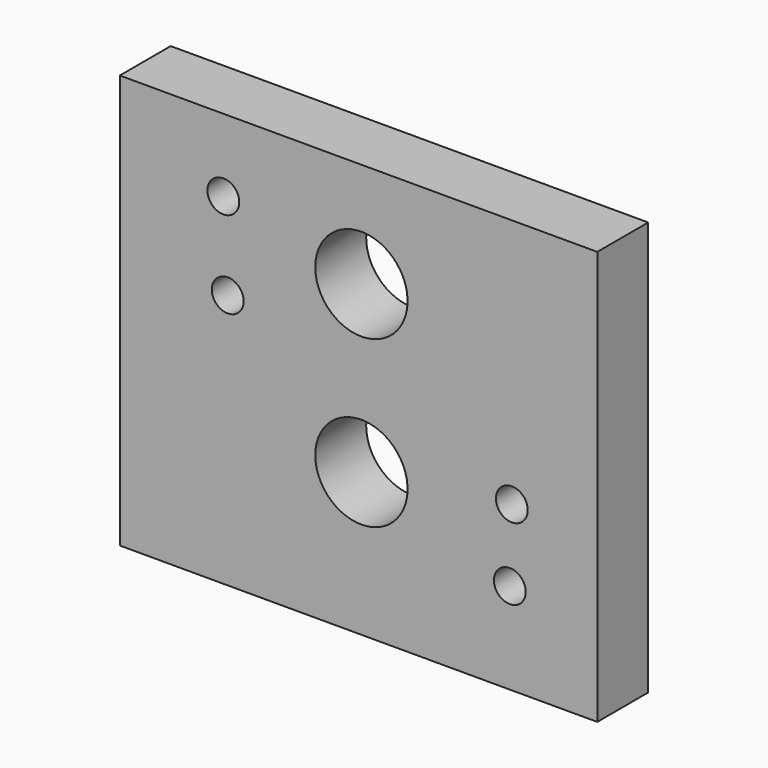
from build123d import *

# Parameters (mm, degrees)
F0_W     = 75
F0_H     = 65
F1_DEPTH = 10
F3_D     = 14.5
F5_D     = 5


with BuildPart() as f1:
    # F0 (on Front) → F1 (new body)
    with BuildSketch(Plane.XZ):
        with Locations((37.5, 32.5)):
            Rectangle(F0_W, F0_H)
    extrude(amount=F1_DEPTH)

    # F3 (through all)
    with Locations(Plane.XZ.offset(10)):
        with Locations((37.950881, 48.491641), (37.950881, 22.491641)):
            Hole(F3_D / 2)

    # F5 (through all)
    with Locations(Plane.XZ.offset(10)):
        with Locations((16.265364, 53.577758), (16.952468, 40.109664), (61.576582, 25.720431), (61.264336, 14.315818)):
            Hole(F5_D / 2)


solid = f1.part
